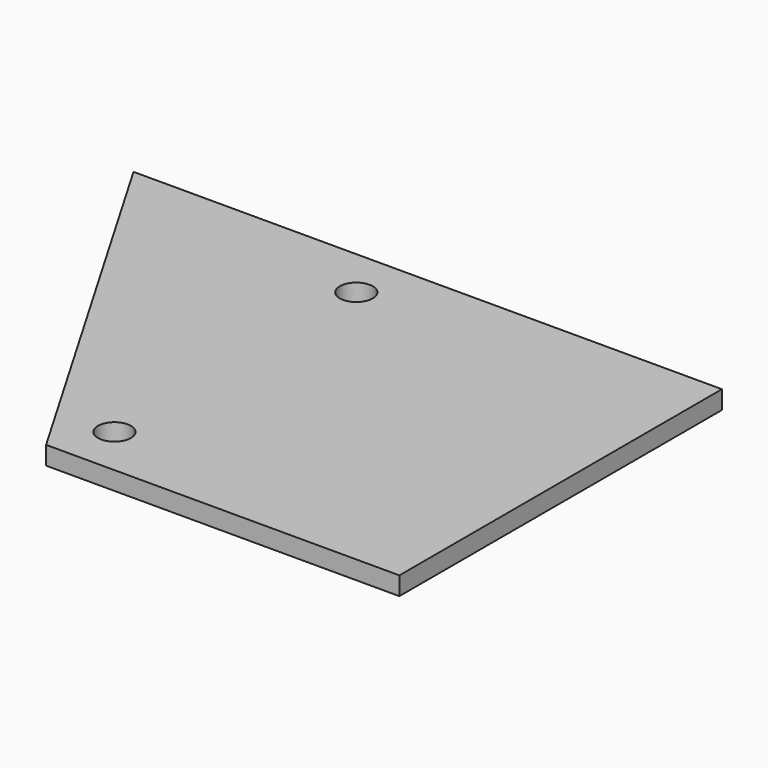
from build123d import *

# Parameters (mm, degrees)
CYLINDER001_R          = 1.8
CYLINDER001_DEPTH      = 100
CYLINDER_R             = 1.8
CYLINDER_DEPTH         = 100
BOX001_W               = 25
BOX001_H               = 60
BOX001_DEPTH           = 25
BOX001_PLACEMENT_ANGLE = 30.25
BOX_W                  = 65
BOX_H                  = 44
BOX_DEPTH              = 2


with BuildPart() as zylinder001:
    # Cylinder001 → Cylinder001 (new body)
    with BuildSketch(Plane(origin=(29.5, 5.5, -6), x_dir=(1, 0, 0), z_dir=(0, 0, 1))):
        Circle(CYLINDER001_R)
    extrude(amount=CYLINDER001_DEPTH)


with BuildPart() as zylinder:
    # Cylinder → Cylinder (new body)
    with BuildSketch(Plane(origin=(29.5, 38.5, -6), x_dir=(1, 0, 0), z_dir=(0, 0, 1))):
        Circle(CYLINDER_R)
    extrude(amount=CYLINDER_DEPTH)


with BuildPart() as obj1:
    # Box001 → Box001 (new body)
    with BuildSketch(Plane.XY):
        with Locations((12.5, 30)):
            Rectangle(BOX001_W, BOX001_H)
    extrude(amount=BOX001_DEPTH)


with BuildPart() as obj1_1:
    # Box001 placement: moved
    add(obj1.part.moved(Location((8, -18, 0))).rotate(Axis((8, -18, 0), (0, 0, 1)), BOX001_PLACEMENT_ANGLE))


with BuildPart() as cut008:
    # Box → Box (new body)
    with BuildSketch(Plane.XY):
        with Locations((32.5, 22)):
            Rectangle(BOX_W, BOX_H)
    extrude(amount=BOX_DEPTH)

    # Cut003: cut obj1
    add(obj1_1.part, mode=Mode.SUBTRACT)


with BuildPart() as cut008_1:
    # Cut003 placement: moved
    add(cut008.part.moved(Location((0, 0, 50))))

    # Cut007: cut Zylinder
    add(zylinder.part, mode=Mode.SUBTRACT)

    # Cut008: cut Zylinder001
    add(zylinder001.part, mode=Mode.SUBTRACT)


solid = cut008_1.part
